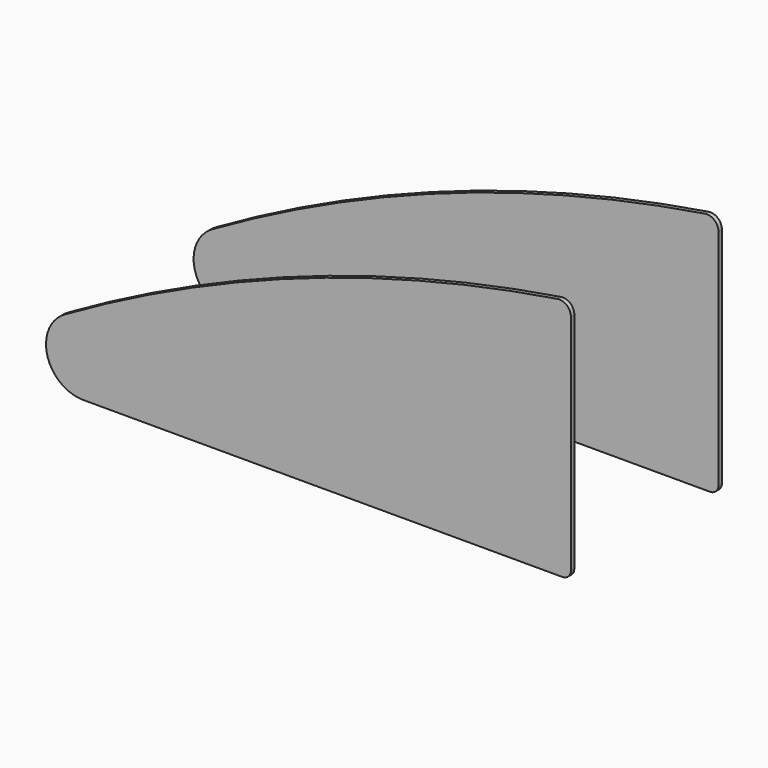
from build123d import *

# Parameters (mm, degrees)
F2_DEPTH = 6


with BuildPart() as f2:
    # F1 (on offset) → F2 (new body)
    with BuildSketch(Plane.XZ.offset(-247)):
        with BuildLine():
            Line((-1476.857, 74.533), (-811.759, 74.533))
            ThreePointArc((-811.759, 74.533), (-803.444131, 77.977131), (-800, 86.292))
            Line((-800, 86.292), (-800, 396.292))
            ThreePointArc((-800, 396.292), (-805.594834, 408.426677), (-818.456, 412.052))
            ThreePointArc((-818.456, 412.052), (-1171.487256, 322.537858), (-1502.482, 170.596))
            ThreePointArc((-1502.482, 170.596), (-1526.568016, 112.721746), (-1476.857, 74.533))
        make_face()
    extrude(amount=-F2_DEPTH)


with BuildPart() as f4_1:
    # F4: instance of F2
    add(f2.part.mirror(Plane.XZ.offset(-378)))


solid = Compound([f2.part, f4_1.part])
